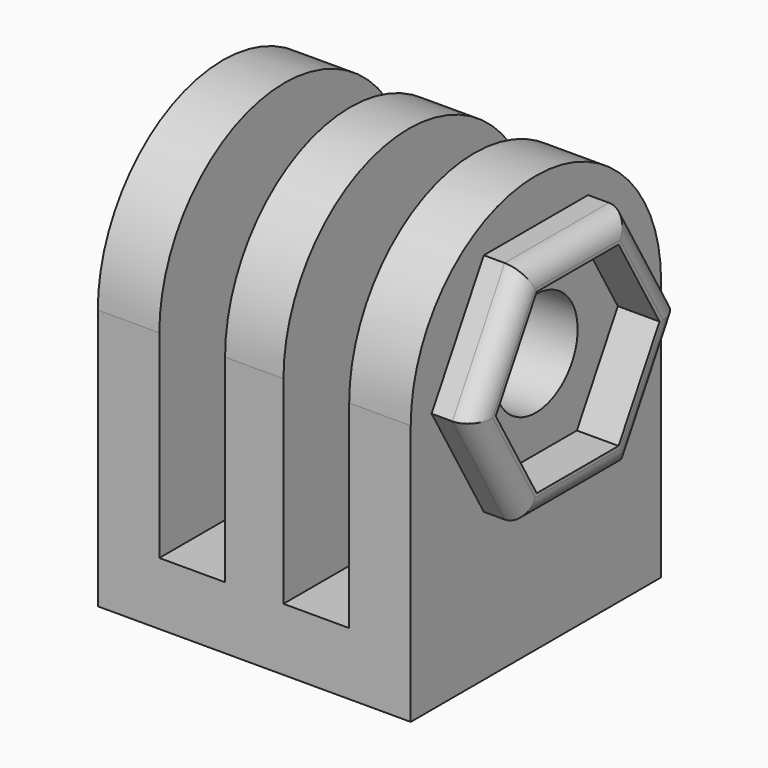
from build123d import *

# Parameters (mm, degrees)
F0_W      = 15
F0_H      = 3
F1_DEPTH  = 15
F2_DEPTH  = 3
F3_DEPTH  = 3
F4_DEPTH  = 2
F5_DEPTH  = 3
F6_DEPTH  = 12
F7_D      = 5
F7_DEPTH  = 15
F9_W      = 3.15
F9_H      = 15
F10_DEPTH = 17
F11_R     = 1


with BuildPart() as f1:
    # F0 (on Right) → F1 (new body)
    with BuildSketch(Plane.YZ):
        with Locations((0, 1.5)):
            Rectangle(F0_W, F0_H)
    extrude(amount=-F1_DEPTH)

    # F0 (on Right) → F2 (join)
    with BuildSketch(Plane.YZ):
        with BuildLine():
            Line((-7.5, 12.5), (-7.5, 3))
            Line((-7.5, 3), (7.5, 3))
            Line((7.5, 3), (7.5, 12.5))
            ThreePointArc((7.5, 12.5), (0, 20), (-7.5, 12.5))
        make_face()
        Polygon((-6.25, 12.5), (-3.125, 17.912659), (3.125, 17.912659), (6.25, 12.5), (3.125, 7.087341), (-3.125, 7.087341), align=None, mode=Mode.SUBTRACT)
    extrude(amount=-F2_DEPTH)

    # F0 (on Right) → F3 (join)
    with BuildSketch(Plane.YZ):
        Polygon((3.125, 17.912659), (-3.125, 17.912659), (-6.25, 12.5), (-3.125, 7.087341), (3.125, 7.087341), (6.25, 12.5), align=None)
        Polygon((-4.907477, 12.5), (-2.453739, 16.75), (2.453739, 16.75), (4.907477, 12.5), (2.453739, 8.25), (-2.453739, 8.25), align=None, mode=Mode.SUBTRACT)
    extrude(amount=-F3_DEPTH)

    # F0 (on Right) → F4 (join)
    with BuildSketch(Plane.YZ):
        Polygon((3.125, 17.912659), (-3.125, 17.912659), (-6.25, 12.5), (-3.125, 7.087341), (3.125, 7.087341), (6.25, 12.5), align=None)
        Polygon((-4.907477, 12.5), (-2.453739, 16.75), (2.453739, 16.75), (4.907477, 12.5), (2.453739, 8.25), (-2.453739, 8.25), align=None, mode=Mode.SUBTRACT)
    extrude(amount=F4_DEPTH)

    # F0 (on Right) → F5 (join)
    with BuildSketch(Plane.YZ):
        Polygon((2.453739, 16.75), (-2.453739, 16.75), (-4.907477, 12.5), (-2.453739, 8.25), (2.453739, 8.25), (4.907477, 12.5), align=None)
    extrude(amount=-F5_DEPTH)

    # F5_face (on face) → F6 (join)
    with BuildSketch(Plane(origin=(-3, 0, 10.786279), x_dir=(0, 1, 0), z_dir=(-1, 0, 0))):
        with BuildLine():
            Line((-7.5, 7.786279), (-7.5, -1.713721))
            ThreePointArc((-7.5, -1.713721), (0, -9.213721), (7.5, -1.713721))
            Line((7.5, -1.713721), (7.5, 7.786279))
            Line((7.5, 7.786279), (-7.5, 7.786279))
        make_face()
    extrude(amount=F6_DEPTH)

    # F7
    with Locations(Plane.YZ):
        with Locations((0, 12.5)):
            Hole(F7_D / 2, depth=F7_DEPTH)

    # F9 (on offset) → F10 (cut)
    with BuildSketch(Plane.XY.offset(20)):
        with Locations((-10.475, 0)):
            Rectangle(F9_W, F9_H)
        with Locations((-4.525, 0)):
            Rectangle(F9_W, F9_H)
    extrude(amount=-F10_DEPTH, mode=Mode.SUBTRACT)

    # F11
    f11_edges = [f1.edges().sort_by_distance(p)[0] for p in [
        (2, -4.6875, 9.793671),
        (2, 0, 7.087341),
        (2, -4.6875, 15.206329),
        (2, 0, 17.912659),
        (2, 4.6875, 15.206329),
        (2, 4.6875, 9.793671),
    ]]
    fillet(f11_edges, radius=F11_R)


solid = f1.part
